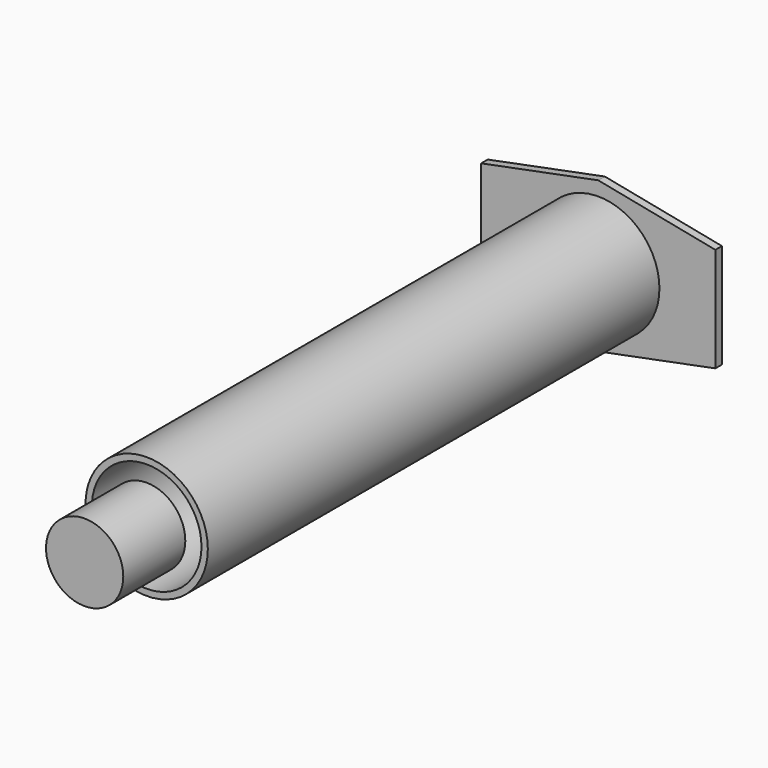
from build123d import *

# Parameters (mm, degrees)
F0_R     = 8.2
F0_R_2   = 7.35
F1_DEPTH = 76.8
F2_DEPTH = 1.1
F3_R     = 5.17997
F4_DEPTH = 10.4


with BuildPart() as f1:
    # F0 (on Front) → F1 (new body)
    with BuildSketch(Plane.XZ):
        Circle(F0_R)
        Circle(F0_R_2, mode=Mode.SUBTRACT)
    extrude(amount=F1_DEPTH)

    # F0 (on Front) → F2 (join)
    with BuildSketch(Plane.XZ):
        Polygon((15.7, 7), (0, 10.1), (-15.7, 7), (-15.7, -7), (0, -10.1), (15.7, -7), align=None)
        Circle(F0_R, mode=Mode.SUBTRACT)
    extrude(amount=F2_DEPTH)


with BuildPart() as f4:
    # F3 (on face) → F4 (new body)
    with BuildSketch(Plane.XZ.offset(76.8)):
        Circle(F3_R)
    extrude(amount=F4_DEPTH)


solid = Compound([f1.part, f4.part])
